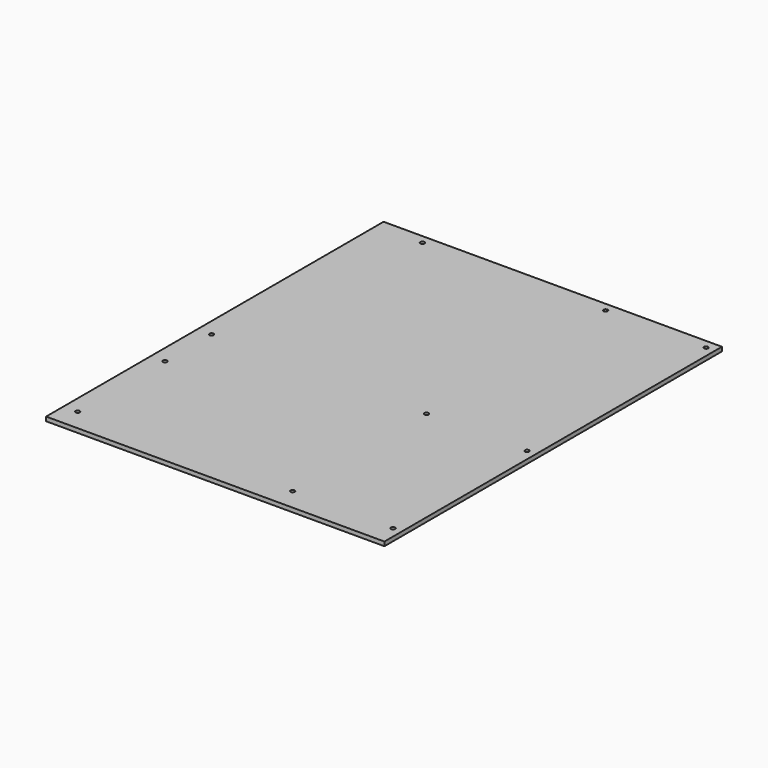
from build123d import *

# Parameters (mm, degrees)
F0_W     = 243.8
F0_H     = 304
F0_R     = 1.5
F1_DEPTH = 3


with BuildPart() as f1:
    # F0 (on Top) → F1 (new body)
    with BuildSketch(Plane.XY):
        Rectangle(F0_W, F0_H)
        with Locations((-111.74, -136.29)):
            Circle(F0_R, mode=Mode.SUBTRACT)
        with Locations((-111.74, -57.55)):
            Circle(F0_R, mode=Mode.SUBTRACT)
        with Locations((-111.74, -15.64)):
            Circle(F0_R, mode=Mode.SUBTRACT)
        with Locations((43.2, -136.29)):
            Circle(F0_R, mode=Mode.SUBTRACT)
        with Locations((115.59, -136.29)):
            Circle(F0_R, mode=Mode.SUBTRACT)
        with Locations((43.2, -15.64)):
            Circle(F0_R, mode=Mode.SUBTRACT)
        with Locations((115.59, -15.64)):
            Circle(F0_R, mode=Mode.SUBTRACT)
        with Locations((-88.88, 145.65)):
            Circle(F0_R, mode=Mode.SUBTRACT)
        with Locations((43.2, 145.65)):
            Circle(F0_R, mode=Mode.SUBTRACT)
        with Locations((115.59, 145.65)):
            Circle(F0_R, mode=Mode.SUBTRACT)
    extrude(amount=F1_DEPTH)


solid = f1.part
